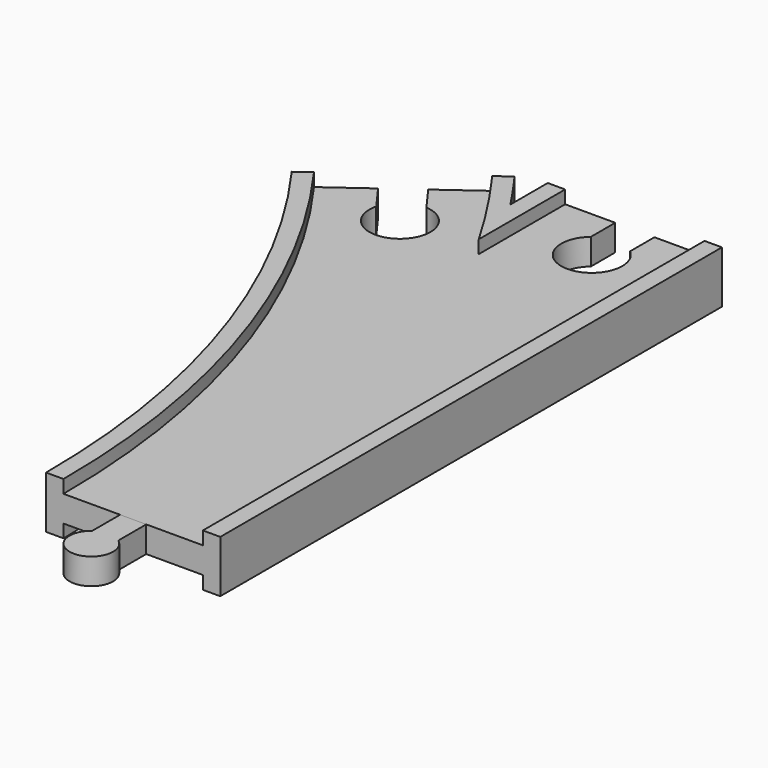
from build123d import *

# Parameters (mm, degrees)
SKETCH013_W          = 32
SKETCH013_H          = 3
POCKET_DEPTH         = 6.001
POCKET_DEPTH_BACK    = -6.001
POCKET001_DEPTH      = 6.001
POCKET001_DEPTH_BACK = -6.001
PAD_DEPTH            = 3


with BuildPart() as body:
    # AdditivePipe: sweep along a path in Sketch002
    with BuildLine(Plane.XY) as additivepipe_path:
        ThreePointArc((0, 0), (-10.865453, 68.601773), (-42.398227, 130.488326))
    # Sketch → AdditivePipe (sweep)
    with BuildSketch(Plane.XZ):
        Polygon((-20, 6), (-20, -6), (-16, -6), (-16, -3), (-9, -3), (9, -3), (16, -3), (16, -6), (20, -6), (20, 6), (16, 6), (16, 3), (9, 3), (-9, 3), (-16, 3), (-16, 6), align=None)
    sweep(path=additivepipe_path.line)

    # AdditivePipe001: sweep along a path in Sketch001
    with BuildLine(Plane.XY) as additivepipe001_path:
        Line((0, 0), (0, 144))
    # Sketch → AdditivePipe001 (sweep)
    with BuildSketch(Plane.XZ):
        Polygon((-20, 6), (-20, -6), (-16, -6), (-16, -3), (-9, -3), (9, -3), (16, -3), (16, -6), (20, -6), (20, 6), (16, 6), (16, 3), (9, 3), (-9, 3), (-16, 3), (-16, 6), align=None)
    sweep(path=additivepipe001_path.line)

    # SubtractivePipe: sweep along a path in Sketch002
    with BuildLine(Plane.XY) as subtractivepipe_path:
        ThreePointArc((0, 0), (-10.865453, 68.601773), (-42.398227, 130.488326))
    # Sketch013 (on Face1 of AdditivePipe001) → SubtractivePipe (sweep, cut)
    with BuildSketch(Plane.XZ):
        with Locations((0, 4.5)):
            Rectangle(SKETCH013_W, SKETCH013_H)
    subtractivepipe = sweep(path=subtractivepipe_path.line, mode=Mode.SUBTRACT)

    # SubtractivePipe001: sweep along a path in Sketch001
    with BuildLine(Plane.XY) as subtractivepipe001_path:
        Line((0, 0), (0, 144))
    # Sketch013 (on Face1 of AdditivePipe001) → SubtractivePipe001 (sweep, cut)
    with BuildSketch(Plane.XZ):
        with Locations((0, 4.5)):
            Rectangle(SKETCH013_W, SKETCH013_H)
    subtractivepipe001 = sweep(path=subtractivepipe001_path.line, mode=Mode.SUBTRACT)

    # Mirrored: SubtractivePipe across XY
    add(subtractivepipe.mirror(Plane.XY), mode=Mode.SUBTRACT)

    # Mirrored001: SubtractivePipe001 across XY
    add(subtractivepipe001.mirror(Plane.XY), mode=Mode.SUBTRACT)

    # Sketch015 → Pocket (cut, two sides)
    with BuildSketch(Plane.XY) as pocket_sk:
        with BuildLine():
            Line((-46.038804, 127.843292), (-38.757651, 133.13336))
            Line((-38.757651, 133.13336), (-34.643154, 127.470241))
            ThreePointArc((-41.924307, 122.180173), (-31.017586, 114.824218), (-34.643154, 127.470241))
            Line((-46.038804, 127.843292), (-41.924307, 122.180173))
        make_face()
    extrude(amount=-POCKET_DEPTH, mode=Mode.SUBTRACT)
    extrude(pocket_sk.sketch, amount=-POCKET_DEPTH_BACK, mode=Mode.SUBTRACT)

    # Sketch016 → Pocket001 (cut, two sides)
    with BuildSketch(Plane.XY) as pocket001_sk:
        with BuildLine():
            Line((-4.5, 144), (4.5, 144))
            Line((4.5, 144), (4.5, 137))
            ThreePointArc((-4.5, 137), (0, 124.638097), (4.5, 137))
            Line((-4.5, 144), (-4.5, 137))
        make_face()
    extrude(amount=-POCKET001_DEPTH, mode=Mode.SUBTRACT)
    extrude(pocket001_sk.sketch, amount=-POCKET001_DEPTH_BACK, mode=Mode.SUBTRACT)


with BuildPart() as body001:
    # Sketch008 → Pad (new body, symmetric)
    with BuildSketch(Plane.XY):
        with BuildLine():
            Line((-3, 0), (3, 0))
            Line((3, 0), (3, -8))
            ThreePointArc((-3, -8), (0, -17), (3, -8))
            Line((-3, 0), (-3, -8))
        make_face()
    extrude(amount=PAD_DEPTH, both=True)


solid = Compound([body.part, body001.part])
